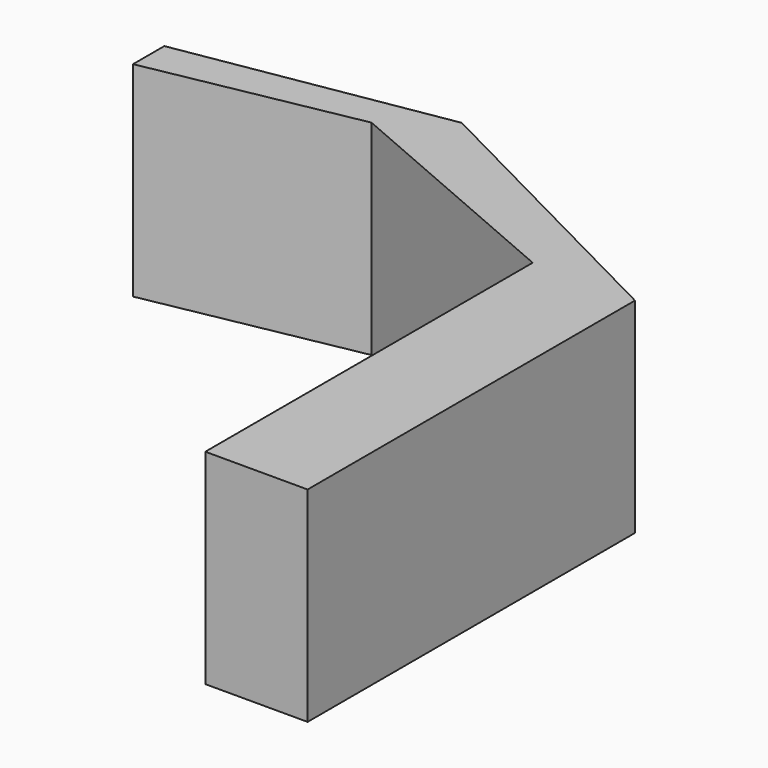
from build123d import *

# Parameters (mm, degrees)
F0_W     = 12.7
F0_H     = 50.8
F1_DEPTH = 25.4


with BuildPart() as f1:
    # F0 (on Top) → F1 (new body)
    with BuildSketch(Plane.XY):
        with Locations((6.35, 25.4)):
            Rectangle(F0_W, F0_H)
        Polygon((-30.575251, 64.008005), (0, 50.8), (12.7, 50.8), (-23.717251, 69.43725), align=None)
        Polygon((-56.29275, 59.150249), (-30.575251, 64.008005), (-23.717251, 69.43725), (-56.29275, 64.008005), align=None)
    extrude(amount=F1_DEPTH)


solid = f1.part
